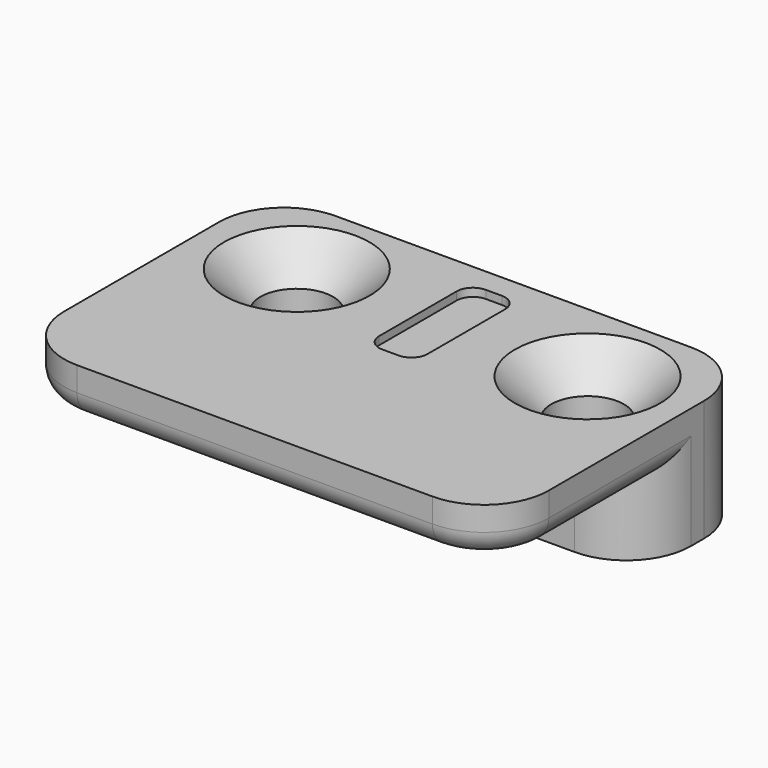
from build123d import *

# Parameters (mm, degrees)
F1_DEPTH       = 15
F3_D           = 4.5
F3_CSINK_D     = 9
F3_CSINK_ANGLE = 90
F4_R           = 4
F5_R           = 1.5
F6_W           = 3
F6_H           = 8
F7_DEPTH       = 0.5
F8_R           = 1


with BuildPart() as f1:
    # F0 (on Right) → F1 (new body, symmetric)
    with BuildSketch(Plane.YZ):
        Polygon((0, 4.5), (0, 0), (9, 0), (9, 7.5), (-11, 7.5), (-11, 4.5), align=None)
    extrude(amount=F1_DEPTH, both=True)

    # F3 (through all)
    with Locations(Plane.XY.offset(7.5)):
        with Locations((-9, 3.5), (9, 3.5)):
            CounterSinkHole(F3_D / 2, F3_CSINK_D / 2, counter_sink_angle=F3_CSINK_ANGLE)

    # F4
    f4_edges = [f1.edges().sort_by_distance(p)[0] for p in [
        (15, -11, 6),
        (-15, -11, 6),
        (15, 0, 2.25),
        (-15, 0, 2.25),
        (-15, 9, 3.75),
        (15, 9, 3.75),
    ]]
    fillet(f4_edges, radius=F4_R)

    # F5
    f5_edges = [f1.edges().sort_by_distance(p)[0] for p in [
        (-15, -3.5, 4.5),
    ]]
    fillet(f5_edges, radius=F5_R)

    # F6 (on face) → F7 (cut)
    with BuildSketch(Plane.XY.offset(7.5)):
        with Locations((0, 3.5)):
            Rectangle(F6_W, F6_H)
    extrude(amount=-F7_DEPTH, mode=Mode.SUBTRACT)

    # F8
    f8_edges = [f1.edges().sort_by_distance(p)[0] for p in [
        (-1.5, 7.5, 7.25),
        (-1.5, -0.5, 7.25),
        (1.5, -0.5, 7.25),
        (1.5, 7.5, 7.25),
    ]]
    fillet(f8_edges, radius=F8_R)


solid = f1.part
